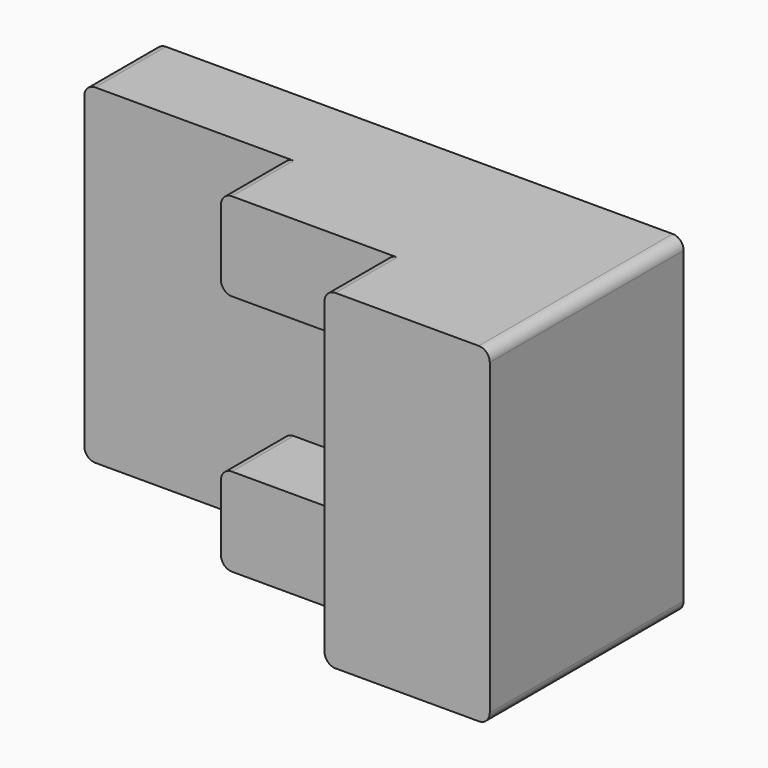
from build123d import *

# Parameters (mm, degrees)
F0_W     = 60.96
F0_H     = 38.1
F1_DEPTH = 10.16
F2_W     = 19.05
F2_H     = 38.1
F3_DEPTH = 17.78
F4_W     = 19.05
F4_H     = 10.16
F5_DEPTH = 8.89
F6_R     = 1.27


with BuildPart() as f1:
    # F0 (on Front) → F1 (new body)
    with BuildSketch(Plane.XZ):
        Rectangle(F0_W, F0_H)
    extrude(amount=F1_DEPTH)

    # F2 (on face) → F3 (join)
    with BuildSketch(Plane.XZ.offset(10.16)):
        with Locations((20.955, 0)):
            Rectangle(F2_W, F2_H)
    extrude(amount=F3_DEPTH)

    # F4 (on face) → F5 (join)
    with BuildSketch(Plane.XZ.offset(10.16)):
        with Locations((1.905, 13.97)):
            Rectangle(F4_W, F4_H)
        with Locations((1.905, -13.97)):
            Rectangle(F4_W, F4_H)
    extrude(amount=F5_DEPTH)

    # F6
    f6_edges = [f1.edges().sort_by_distance(p)[0] for p in [
        (-30.48, -5.08, 19.05),
        (-30.48, -5.08, -19.05),
        (-7.62, -14.605, 19.05),
        (-7.62, -14.605, 8.89),
        (-7.62, -14.605, -8.89),
        (-7.62, -14.605, -19.05),
        (11.43, -23.495, -19.05),
        (11.43, -23.495, 19.05),
        (30.48, -13.97, 19.05),
        (30.48, -13.97, -19.05),
        (11.43, -14.605, -8.89),
        (11.43, -14.605, 8.89),
    ]]
    fillet(f6_edges, radius=F6_R)


solid = f1.part
